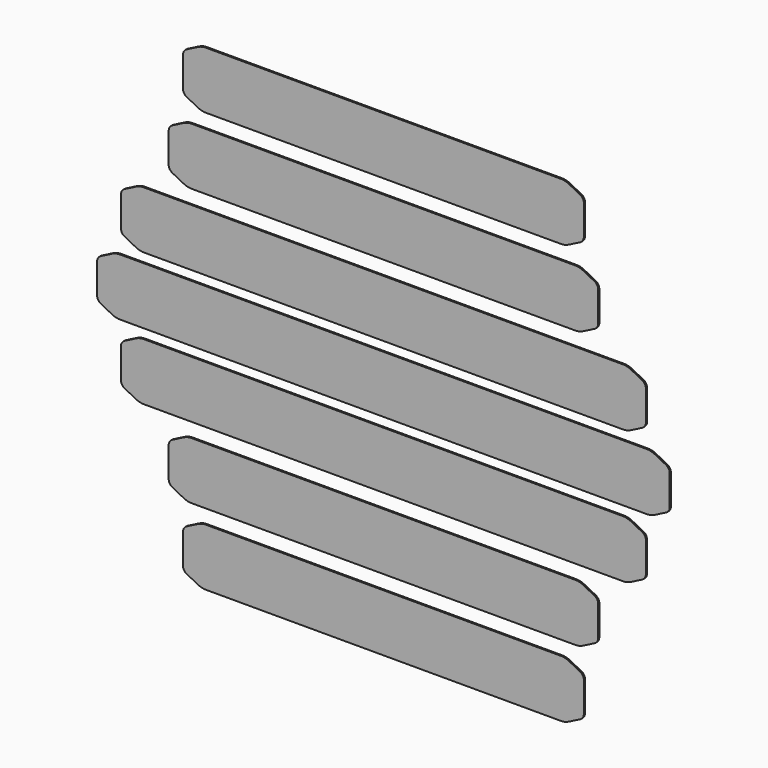
from build123d import *

# Parameters (mm, degrees)
F1_DEPTH = 1.5


with BuildPart() as f1:
    # F0 (on Front) → F1 (new body)
    with BuildSketch(Plane.XZ):
        with BuildLine():
            ThreePointArc((-276, 30), (-280.202017, 29.502659), (-284.171829, 28.038117))
            Line((-284.171829, 28.038117), (-296.177933, 21.920702))
            ThreePointArc((-296.177933, 21.920702), (-298.968481, 19.341146), (-300, 15.683656))
            Line((-300, 15.683656), (-300, 0))
            Line((-300, 0), (-300, -15.683656))
            ThreePointArc((-300, -15.683656), (-298.968481, -19.341146), (-296.177933, -21.920702))
            Line((-296.177933, -21.920702), (-284.171829, -28.038117))
            ThreePointArc((-284.171829, -28.038117), (-280.202017, -29.502659), (-276, -30))
            Line((-276, -30), (0, -30))
            Line((0, -30), (276, -30))
            ThreePointArc((276, -30), (280.202017, -29.502659), (284.171829, -28.038117))
            Line((284.171829, -28.038117), (296.177933, -21.920702))
            ThreePointArc((296.177933, -21.920702), (298.968481, -19.341146), (300, -15.683656))
            Line((300, -15.683656), (300, 0))
            Line((300, 0), (300, 15.683656))
            ThreePointArc((300, 15.683656), (298.968481, 19.341146), (296.177933, 21.920702))
            Line((296.177933, 21.920702), (284.171829, 28.038117))
            ThreePointArc((284.171829, 28.038117), (280.202017, 29.502659), (276, 30))
            Line((276, 30), (0, 30))
            Line((0, 30), (-276, 30))
        make_face()
        with BuildLine():
            Line((-259.171829, 98.038117), (-271.177933, 91.920702))
            ThreePointArc((-271.177933, 91.920702), (-273.968481, 89.341146), (-275, 85.683656))
            Line((-275, 85.683656), (-275, 70))
            Line((-275, 70), (-275, 54.316344))
            ThreePointArc((-275, 54.316344), (-273.968481, 50.658854), (-271.177933, 48.079298))
            Line((-271.177933, 48.079298), (-259.171829, 41.961883))
            ThreePointArc((-259.171829, 41.961883), (-255.202017, 40.497341), (-251, 40))
            Line((-251, 40), (0, 40))
            Line((0, 40), (251, 40))
            ThreePointArc((251, 40), (255.202017, 40.497341), (259.171829, 41.961883))
            Line((259.171829, 41.961883), (271.177933, 48.079298))
            ThreePointArc((271.177933, 48.079298), (273.968481, 50.658854), (275, 54.316344))
            Line((275, 54.316344), (275, 70))
            Line((275, 70), (275, 85.683656))
            ThreePointArc((275, 85.683656), (273.968481, 89.341146), (271.177933, 91.920702))
            Line((271.177933, 91.920702), (259.171829, 98.038117))
            ThreePointArc((259.171829, 98.038117), (255.202017, 99.502659), (251, 100))
            Line((251, 100), (0, 100))
            Line((0, 100), (-251, 100))
            ThreePointArc((-251, 100), (-255.202017, 99.502659), (-259.171829, 98.038117))
        make_face()
        with BuildLine():
            ThreePointArc((-225, 129.316344), (-223.968481, 125.658854), (-221.177933, 123.079298))
            Line((-221.177933, 123.079298), (-209.171829, 116.961883))
            ThreePointArc((-209.171829, 116.961883), (-205.202017, 115.497341), (-201, 115))
            Line((-201, 115), (0, 115))
            Line((0, 115), (201, 115))
            ThreePointArc((201, 115), (205.202017, 115.497341), (209.171829, 116.961883))
            Line((209.171829, 116.961883), (221.177933, 123.079298))
            ThreePointArc((221.177933, 123.079298), (223.968481, 125.658854), (225, 129.316344))
            Line((225, 129.316344), (225, 145))
            Line((225, 145), (225, 160.683656))
            ThreePointArc((225, 160.683656), (223.968481, 164.341146), (221.177933, 166.920702))
            Line((221.177933, 166.920702), (209.171829, 173.038117))
            ThreePointArc((209.171829, 173.038117), (205.202017, 174.502659), (201, 175))
            Line((201, 175), (0, 175))
            Line((0, 175), (-201, 175))
            ThreePointArc((-201, 175), (-205.202017, 174.502659), (-209.171829, 173.038117))
            Line((-209.171829, 173.038117), (-221.177933, 166.920702))
            ThreePointArc((-221.177933, 166.920702), (-223.968481, 164.341146), (-225, 160.683656))
            Line((-225, 160.683656), (-225, 145))
            Line((-225, 145), (-225, 129.316344))
        make_face()
        with BuildLine():
            ThreePointArc((-251, -40), (-255.202017, -40.497341), (-259.171829, -41.961883))
            Line((-259.171829, -41.961883), (-271.177933, -48.079298))
            ThreePointArc((-271.177933, -48.079298), (-273.968481, -50.658854), (-275, -54.316344))
            Line((-275, -54.316344), (-275, -70))
            Line((-275, -70), (-275, -85.683656))
            ThreePointArc((-275, -85.683656), (-273.968481, -89.341146), (-271.177933, -91.920702))
            Line((-271.177933, -91.920702), (-259.171829, -98.038117))
            ThreePointArc((-259.171829, -98.038117), (-255.202017, -99.502659), (-251, -100))
            Line((-251, -100), (0, -100))
            Line((0, -100), (251, -100))
            ThreePointArc((251, -100), (255.202017, -99.502659), (259.171829, -98.038117))
            Line((259.171829, -98.038117), (271.177933, -91.920702))
            ThreePointArc((271.177933, -91.920702), (273.968481, -89.341146), (275, -85.683656))
            Line((275, -85.683656), (275, -70))
            Line((275, -70), (275, -54.316344))
            ThreePointArc((275, -54.316344), (273.968481, -50.658854), (271.177933, -48.079298))
            Line((271.177933, -48.079298), (259.171829, -41.961883))
            ThreePointArc((259.171829, -41.961883), (255.202017, -40.497341), (251, -40))
            Line((251, -40), (0, -40))
            Line((0, -40), (-251, -40))
        make_face()
        with BuildLine():
            ThreePointArc((-201, -115), (-205.202017, -115.497341), (-209.171829, -116.961883))
            Line((-209.171829, -116.961883), (-221.177933, -123.079298))
            ThreePointArc((-221.177933, -123.079298), (-223.968481, -125.658854), (-225, -129.316344))
            Line((-225, -129.316344), (-225, -145))
            Line((-225, -145), (-225, -160.683656))
            ThreePointArc((-225, -160.683656), (-223.968481, -164.341146), (-221.177933, -166.920702))
            Line((-221.177933, -166.920702), (-209.171829, -173.038117))
            ThreePointArc((-209.171829, -173.038117), (-205.202017, -174.502659), (-201, -175))
            Line((-201, -175), (0, -175))
            Line((0, -175), (201, -175))
            ThreePointArc((201, -175), (205.202017, -174.502659), (209.171829, -173.038117))
            Line((209.171829, -173.038117), (221.177933, -166.920702))
            ThreePointArc((221.177933, -166.920702), (223.968481, -164.341146), (225, -160.683656))
            Line((225, -160.683656), (225, -145))
            Line((225, -145), (225, -129.316344))
            ThreePointArc((225, -129.316344), (223.968481, -125.658854), (221.177933, -123.079298))
            Line((221.177933, -123.079298), (209.171829, -116.961883))
            ThreePointArc((209.171829, -116.961883), (205.202017, -115.497341), (201, -115))
            Line((201, -115), (0, -115))
            Line((0, -115), (-201, -115))
        make_face()
        with BuildLine():
            ThreePointArc((-186, -190), (-190.202017, -190.497341), (-194.171829, -191.961883))
            Line((-194.171829, -191.961883), (-206.177933, -198.079298))
            ThreePointArc((-206.177933, -198.079298), (-208.968481, -200.658854), (-210, -204.316344))
            Line((-210, -204.316344), (-210, -220))
            Line((-210, -220), (-210, -235.683656))
            ThreePointArc((-210, -235.683656), (-208.968481, -239.341146), (-206.177933, -241.920702))
            Line((-206.177933, -241.920702), (-194.171829, -248.038117))
            ThreePointArc((-194.171829, -248.038117), (-190.202017, -249.502659), (-186, -250))
            Line((-186, -250), (0, -250))
            Line((0, -250), (186, -250))
            ThreePointArc((186, -250), (190.202017, -249.502659), (194.171829, -248.038117))
            Line((194.171829, -248.038117), (206.177933, -241.920702))
            ThreePointArc((206.177933, -241.920702), (208.968481, -239.341146), (210, -235.683656))
            Line((210, -235.683656), (210, -220))
            Line((210, -220), (210, -204.316344))
            ThreePointArc((210, -204.316344), (208.968481, -200.658854), (206.177933, -198.079298))
            Line((206.177933, -198.079298), (194.171829, -191.961883))
            ThreePointArc((194.171829, -191.961883), (190.202017, -190.497341), (186, -190))
            Line((186, -190), (0, -190))
            Line((0, -190), (-186, -190))
        make_face()
        with BuildLine():
            Line((-210, 220), (-210, 204.316344))
            ThreePointArc((-210, 204.316344), (-208.968481, 200.658854), (-206.177933, 198.079298))
            Line((-206.177933, 198.079298), (-194.171829, 191.961883))
            ThreePointArc((-194.171829, 191.961883), (-190.202017, 190.497341), (-186, 190))
            Line((-186, 190), (0, 190))
            Line((0, 190), (186, 190))
            ThreePointArc((186, 190), (190.202017, 190.497341), (194.171829, 191.961883))
            Line((194.171829, 191.961883), (206.177933, 198.079298))
            ThreePointArc((206.177933, 198.079298), (208.968481, 200.658854), (210, 204.316344))
            Line((210, 204.316344), (210, 220))
            Line((210, 220), (210, 235.683656))
            ThreePointArc((210, 235.683656), (208.968481, 239.341146), (206.177933, 241.920702))
            Line((206.177933, 241.920702), (194.171829, 248.038117))
            ThreePointArc((194.171829, 248.038117), (190.202017, 249.502659), (186, 250))
            Line((186, 250), (0, 250))
            Line((0, 250), (-186, 250))
            ThreePointArc((-186, 250), (-190.202017, 249.502659), (-194.171829, 248.038117))
            Line((-194.171829, 248.038117), (-206.177933, 241.920702))
            ThreePointArc((-206.177933, 241.920702), (-208.968481, 239.341146), (-210, 235.683656))
            Line((-210, 235.683656), (-210, 220))
        make_face()
    extrude(amount=F1_DEPTH)


solid = f1.part
